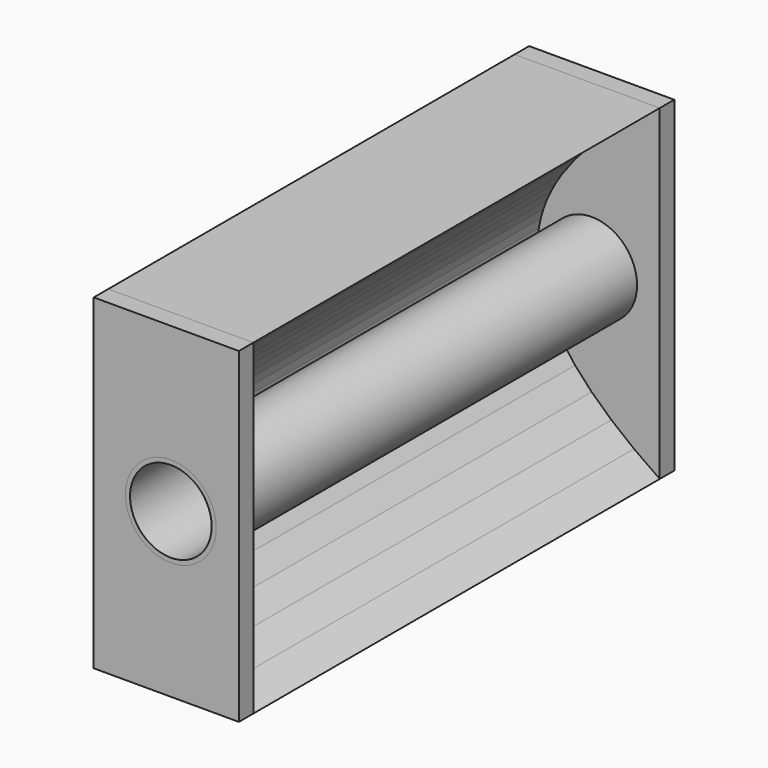
from build123d import *

# Parameters (mm, degrees)
F0_R     = 25
F0_R_2   = 22.5
F1_DEPTH = 150
F3_DEPTH = 140
F5_R     = 25
F6_DEPTH = 10


with BuildPart() as f1:
    # F0 (on Front) → F1 (new body, symmetric)
    with BuildSketch(Plane.XZ):
        with Locations((30, 0)):
            Circle(F0_R)
        with Locations((30, 0)):
            Circle(F0_R_2, mode=Mode.SUBTRACT)
    extrude(amount=F1_DEPTH, both=True)


with BuildPart() as f3:
    # F2 (on Front) → F3 (new body, symmetric)
    with BuildSketch(Plane.XZ):
        Polygon((-12.5, 0), (0, 0), (0.833, 10), (1.875, 15), (3.333, 20), (5.208, 25), (7.5, 30), (10.208, 35), (13.333, 40), (20.833, 50), (30, 60), (40.833, 70), (53.333, 80), (67.5, 90), (-12.5, 90), align=None)
    extrude(amount=F3_DEPTH, both=True)

    # F4: F3 across plane


with BuildPart() as f3_1:
    add(f3.part)
    add(f3.part.mirror(Plane.XY))


with BuildPart() as f6:
    # F5 (on face) → F6 (new body)
    with BuildSketch(Plane.XZ.offset(140)):
        Polygon((67.5, -90), (67.5, 90), (53.333, 80), (40.833, 70), (30, 60), (20.833, 50), (13.333, 40), (10.208, 35), (7.5, 30), (5.208, 25), (3.333, 20), (1.875, 15), (0.833, 10), (0, 0), (0.833, -10), (1.875, -15), (3.333, -20), (5.208, -25), (7.5, -30), (10.208, -35), (13.333, -40), (20.833, -50), (30, -60), (40.833, -70), (53.333, -80), align=None)
        with Locations((30, 0)):
            Circle(F5_R, mode=Mode.SUBTRACT)
        Polygon((53.333, 80), (67.5, 90), (-12.5, 90), (-12.5, -90), (67.5, -90), (53.333, -80), (40.833, -70), (30, -60), (20.833, -50), (13.333, -40), (10.208, -35), (7.5, -30), (5.208, -25), (3.333, -20), (1.875, -15), (0.833, -10), (0, 0), (0.833, 10), (1.875, 15), (3.333, 20), (5.208, 25), (7.5, 30), (10.208, 35), (13.333, 40), (20.833, 50), (30, 60), (40.833, 70), align=None)
    extrude(amount=F6_DEPTH)


with BuildPart() as f7_1:
    # F7: instance of F6
    add(f6.part.mirror(Plane.XZ))


solid = Compound([f1.part, f3_1.part, f6.part, f7_1.part])
